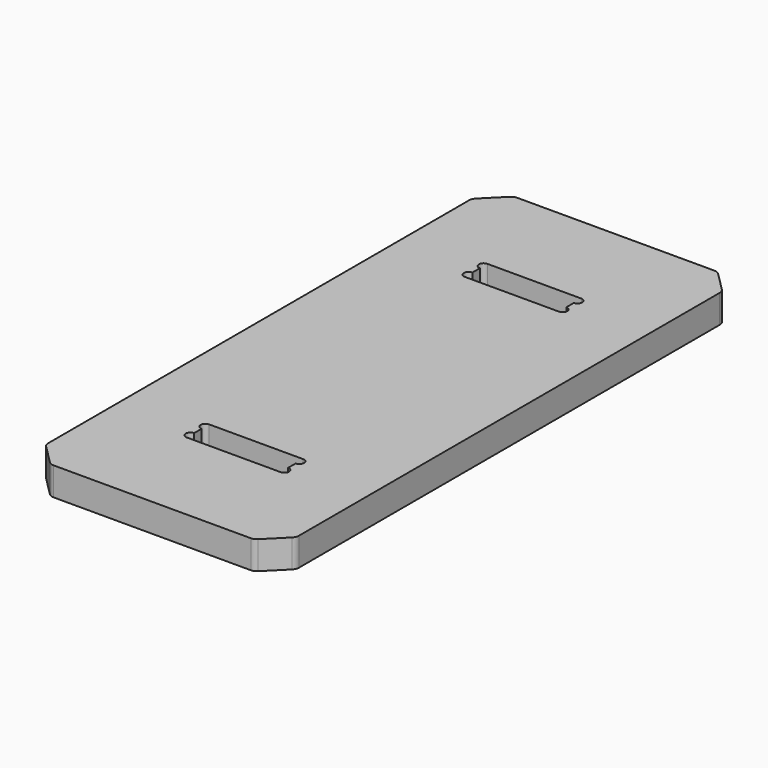
from build123d import *

# Parameters (mm, degrees)
SKETCH_W        = 160
SKETCH_H        = 370
PAD_DEPTH       = 18
POCKET_DEPTH    = 12
CHAMFER_SIZE    = 15
CHAMFER001_SIZE = 15
CHAMFER002_SIZE = 15
FILLET_R        = 5


with BuildPart() as part:
    # Sketch → Pad (new body)
    with BuildSketch(Plane.XY):
        Rectangle(SKETCH_W, SKETCH_H)
    extrude(amount=PAD_DEPTH)

    # Sketch001 → Pocket (cut)
    with BuildSketch(Plane.XY.offset(18)):
        with BuildLine():
            Line((-30, 120), (30, 120))
            ThreePointArc((30, 114), (33, 117), (30, 120))
            Line((30, 114), (30, 108))
            ThreePointArc((30, 102), (33, 105), (30, 108))
            Line((30, 102), (-30, 102))
            ThreePointArc((-30, 108), (-33, 105), (-30, 102))
            Line((-30, 108), (-30, 114))
            ThreePointArc((-30, 120), (-33, 117), (-30, 114))
        make_face()
    pocket = extrude(amount=-POCKET_DEPTH, mode=Mode.SUBTRACT)

    # Mirrored: Pocket across Sketch001 H_Axis
    add(pocket.mirror(Plane(origin=(0, 0, 18), x_dir=(0, 0, 1), z_dir=(0, 1, 0))), mode=Mode.SUBTRACT)

    # Chamfer
    chamfer_edges = [part.edges().sort_by_distance(p)[0] for p in [
        (-80, 185, 9),
    ]]
    chamfer(chamfer_edges, length=CHAMFER_SIZE)

    # Chamfer001
    chamfer001_edges = [part.edges().sort_by_distance(p)[0] for p in [
        (80, 185, 9),
        (80, -185, 9),
    ]]
    chamfer(chamfer001_edges, length=CHAMFER001_SIZE)

    # Chamfer002
    chamfer002_edges = [part.edges().sort_by_distance(p)[0] for p in [
        (-80, -185, 9),
    ]]
    chamfer(chamfer002_edges, length=CHAMFER002_SIZE)

    # Fillet
    fillet_edges = [part.edges().sort_by_distance(p)[0] for p in [
        (-80, -170, 9),
        (-65, -185, 9),
        (-80, 170, 9),
        (-65, 185, 9),
        (65, 185, 9),
        (80, 170, 9),
        (80, -170, 9),
        (65, -185, 9),
    ]]
    fillet(fillet_edges, radius=FILLET_R)


solid = part.part
